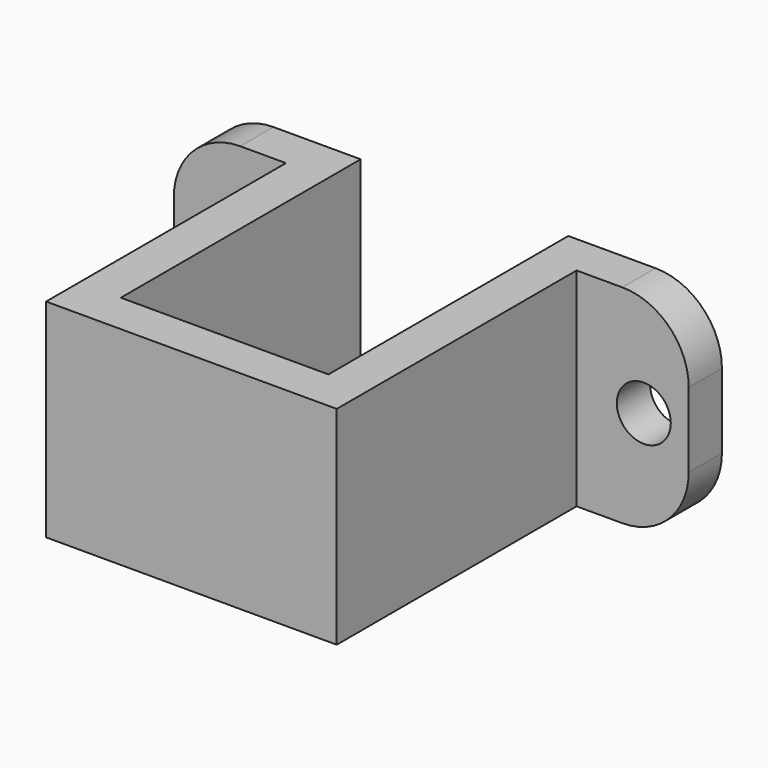
from build123d import *

# Parameters (mm, degrees)
F1_DEPTH = 25
F3_D     = 6.5
F4_D     = 6.5
F5_R     = 8


with BuildPart() as f1:
    # F0 (on Top) → F1 (new body)
    with BuildSketch(Plane.XY):
        Polygon((31, 27.8544), (31, 32.8544), (12.5, 32.8544), (12.5, -3.2456), (0, -3.2456), (-12.5, -3.2456), (-12.5, 32.8544), (-31, 32.8544), (-31, 27.8544), (-17.5, 27.8544), (-17.5, -8.2456), (0, -8.2456), (17.5, -8.2456), (17.5, 27.8544), align=None)
    extrude(amount=F1_DEPTH)

    # F3 (through all)
    with Locations(Plane(origin=(0, 32.8544, 0), x_dir=(-1, 0, 0), z_dir=(0, 1, 0))):
        with Locations((25.023391, 12.5)):
            Hole(F3_D / 2)

    # F4 (through all)
    with Locations(Plane(origin=(0, 32.8544, 0), x_dir=(-1, 0, 0), z_dir=(0, 1, 0))):
        with Locations((-25.593, 12.5)):
            Hole(F4_D / 2)

    # F5
    f5_edges = [f1.edges().sort_by_distance(p)[0] for p in [
        (-31, 30.3544, 25),
        (-31, 30.3544, 0),
        (31, 30.3544, 25),
        (31, 30.3544, 0),
    ]]
    fillet(f5_edges, radius=F5_R)


solid = f1.part
